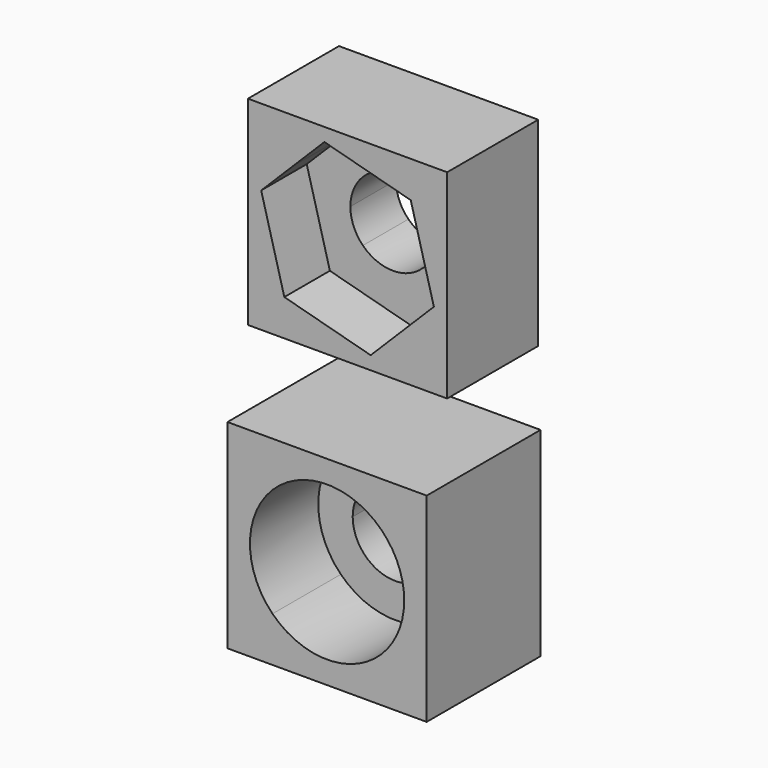
from build123d import *

# Parameters (mm, degrees)
F1_DEPTH = 3
F3_DEPTH = 2
F5_DEPTH = 2
F7_DEPTH = 2


with BuildPart() as f1:
    # F0 (on Front) → F1 (new body)
    with BuildSketch(Plane.XZ):
        with BuildLine():
            Line((-18.2735935003, 11.3181839303), (-25.2735935003, 11.3181839303))
            Line((-25.2735935003, 11.3181839303), (-23.6898528773, 9.7344433073))
            ThreePointArc((-23.6898528773, 9.7344433073), (-21.7735935003, 10.5281839303), (-19.8573341232, 9.7344433073))
            Line((-19.8573341232, 9.7344433073), (-18.2735935003, 11.3181839303))
        make_face()
        with BuildLine():
            Line((-23.6898528773, 9.7344433073), (-25.2735935003, 11.3181839303))
            Line((-25.2735935003, 11.3181839303), (-25.2735935003, 4.3181839303))
            Line((-25.2735935003, 4.3181839303), (-23.6898528773, 5.9019245533))
            ThreePointArc((-23.6898528773, 5.9019245533), (-24.4835935003, 7.8181839303), (-23.6898528773, 9.7344433073))
        make_face()
        with BuildLine():
            Line((-23.6898528773, 5.9019245533), (-25.2735935003, 4.3181839303))
            Line((-25.2735935003, 4.3181839303), (-18.2735935003, 4.3181839303))
            Line((-18.2735935003, 4.3181839303), (-19.8573341232, 5.9019245533))
            ThreePointArc((-19.8573341232, 5.9019245533), (-21.7735935003, 5.1081839303), (-23.6898528773, 5.9019245533))
        make_face()
        with BuildLine():
            Line((-18.2735935003, 4.3181839303), (-18.2735935003, 11.3181839303))
            Line((-18.2735935003, 11.3181839303), (-19.8573341232, 9.7344433073))
            ThreePointArc((-19.8573341232, 9.7344433073), (-19.2698799672, 8.855256032), (-19.0635935003, 7.8181839303))
            ThreePointArc((-19.0635935003, 7.8181839303), (-19.2698799672, 6.7811118286), (-19.8573341232, 5.9019245533))
            Line((-19.8573341232, 5.9019245533), (-18.2735935003, 4.3181839303))
        make_face()
    extrude(amount=-F1_DEPTH)

    # F2 (on face) → F3 (join)
    with BuildSketch(Plane(origin=(0, 3, 0), x_dir=(-1, 0, 0), z_dir=(0, 1, 0))):
        with BuildLine():
            Line((19.8573341232, 9.7344433073), (18.2735935003, 11.3181839303))
            Line((18.2735935003, 11.3181839303), (18.2735935003, 4.3181839303))
            Line((18.2735935003, 4.3181839303), (19.8573341232, 5.9019245533))
            ThreePointArc((19.8573341232, 5.9019245533), (19.0635935003, 7.8181839303), (19.8573341232, 9.7344433073))
        make_face()
        with BuildLine():
            Line((20.7129333285, 8.878844102), (19.8573341232, 9.7344433073))
            ThreePointArc((19.8573341232, 9.7344433073), (19.0635935003, 7.8181839303), (19.8573341232, 5.9019245533))
            Line((19.8573341232, 5.9019245533), (20.7129333285, 6.7575237585))
            ThreePointArc((20.7129333285, 6.7575237585), (20.2735935003, 7.8181839303), (20.7129333285, 8.878844102))
        make_face()
        with BuildLine():
            Line((20.7129333285, 6.7575237585), (19.8573341232, 5.9019245533))
            ThreePointArc((19.8573341232, 5.9019245533), (21.7735935003, 5.1081839303), (23.6898528773, 5.9019245533))
            Line((23.6898528773, 5.9019245533), (22.834253672, 6.7575237585))
            ThreePointArc((22.834253672, 6.7575237585), (21.7735935003, 6.3181839303), (20.7129333285, 6.7575237585))
        make_face()
        with BuildLine():
            Line((19.8573341232, 5.9019245533), (18.2735935003, 4.3181839303))
            Line((18.2735935003, 4.3181839303), (25.2735935003, 4.3181839303))
            Line((25.2735935003, 4.3181839303), (23.6898528773, 5.9019245533))
            ThreePointArc((23.6898528773, 5.9019245533), (21.7735935003, 5.1081839303), (19.8573341232, 5.9019245533))
        make_face()
        with BuildLine():
            Line((25.2735935003, 4.3181839303), (25.2735935003, 11.3181839303))
            Line((25.2735935003, 11.3181839303), (23.6898528773, 9.7344433073))
            ThreePointArc((23.6898528773, 9.7344433073), (24.2773070334, 8.855256032), (24.4835935003, 7.8181839303))
            ThreePointArc((24.4835935003, 7.8181839303), (24.2773070334, 6.7811118286), (23.6898528773, 5.9019245533))
            Line((23.6898528773, 5.9019245533), (25.2735935003, 4.3181839303))
        make_face()
        with BuildLine():
            ThreePointArc((24.4835935003, 7.8181839303), (24.2773070334, 8.855256032), (23.6898528773, 9.7344433073))
            Line((23.6898528773, 9.7344433073), (22.834253672, 8.878844102))
            ThreePointArc((22.834253672, 8.878844102), (23.159412799, 8.3922090788), (23.2735935003, 7.8181839303))
            ThreePointArc((23.2735935003, 7.8181839303), (23.159412799, 7.2441587817), (22.834253672, 6.7575237585))
            Line((22.834253672, 6.7575237585), (23.6898528773, 5.9019245533))
            ThreePointArc((23.6898528773, 5.9019245533), (24.2773070334, 6.7811118286), (24.4835935003, 7.8181839303))
        make_face()
        with BuildLine():
            ThreePointArc((23.6898528773, 9.7344433073), (21.7735935003, 10.5281839303), (19.8573341232, 9.7344433073))
            Line((19.8573341232, 9.7344433073), (20.7129333285, 8.878844102))
            ThreePointArc((20.7129333285, 8.878844102), (21.7735935003, 9.3181839303), (22.834253672, 8.878844102))
            Line((22.834253672, 8.878844102), (23.6898528773, 9.7344433073))
        make_face()
        with BuildLine():
            Line((25.2735935003, 11.3181839303), (18.2735935003, 11.3181839303))
            Line((18.2735935003, 11.3181839303), (19.8573341232, 9.7344433073))
            ThreePointArc((19.8573341232, 9.7344433073), (21.7735935003, 10.5281839303), (23.6898528773, 9.7344433073))
            Line((23.6898528773, 9.7344433073), (25.2735935003, 11.3181839303))
        make_face()
    extrude(amount=F3_DEPTH)


with BuildPart() as f5:
    # F4 (on face) → F5 (new body)
    with BuildSketch(Plane(origin=(0, 5, 0), x_dir=(-1, 0, 0), z_dir=(0, 1, 0))):
        with BuildLine():
            Line((18.3548243865, 20.8877273196), (18.3548243865, 13.8877273196))
            Line((18.3548243865, 13.8877273196), (20.7941642148, 16.3270671479))
            ThreePointArc((20.7941642148, 16.3270671479), (20.3548243865, 17.3877273196), (20.7941642148, 18.4483874914))
            Line((20.7941642148, 18.4483874914), (18.3548243865, 20.8877273196))
        make_face()
        with BuildLine():
            Line((18.3548243865, 13.8877273196), (25.3548243865, 13.8877273196))
            Line((25.3548243865, 13.8877273196), (22.9154845583, 16.3270671479))
            ThreePointArc((22.9154845583, 16.3270671479), (21.8548243865, 15.8877273196), (20.7941642148, 16.3270671479))
            Line((20.7941642148, 16.3270671479), (18.3548243865, 13.8877273196))
        make_face()
        with BuildLine():
            Line((22.9154845583, 16.3270671479), (25.3548243865, 13.8877273196))
            Line((25.3548243865, 13.8877273196), (25.3548243865, 20.8877273196))
            Line((25.3548243865, 20.8877273196), (22.9154845583, 18.4483874914))
            ThreePointArc((22.9154845583, 18.4483874914), (23.2406436853, 17.9617524682), (23.3548243865, 17.3877273196))
            ThreePointArc((23.3548243865, 17.3877273196), (23.2406436853, 16.8137021711), (22.9154845583, 16.3270671479))
        make_face()
        with BuildLine():
            Line((22.9154845583, 18.4483874914), (25.3548243865, 20.8877273196))
            Line((25.3548243865, 20.8877273196), (18.3548243865, 20.8877273196))
            Line((18.3548243865, 20.8877273196), (20.7941642148, 18.4483874914))
            ThreePointArc((20.7941642148, 18.4483874914), (21.8548243865, 18.8877273196), (22.9154845583, 18.4483874914))
        make_face()
    extrude(amount=-F5_DEPTH)

    # F6 (on face) → F7 (join)
    with BuildSketch(Plane.XZ.offset(-3)):
        Polygon((-23.7781548314, 19.3110577645), (-25.3548243865, 20.8877273196), (-25.3548243865, 13.8877273196), (-24.0756950867, 15.1668566195), (-24.8885901814, 18.2006224144), align=None)
        Polygon((-24.0756950867, 15.1668566195), (-25.3548243865, 13.8877273196), (-18.3548243865, 13.8877273196), (-19.9314939417, 15.4643968748), (-21.0419292918, 14.3539615247), align=None)
        Polygon((-18.3548243865, 13.8877273196), (-18.3548243865, 20.8877273196), (-19.6339536864, 19.6085980198), (-18.8210585916, 16.5748322249), (-19.9314939417, 15.4643968748), align=None)
        Polygon((-18.3548243865, 20.8877273196), (-25.3548243865, 20.8877273196), (-23.7781548314, 19.3110577645), (-22.6677194813, 20.4214931145), (-19.6339536864, 19.6085980198), align=None)
    extrude(amount=F7_DEPTH)


solid = Compound([f1.part, f5.part])
